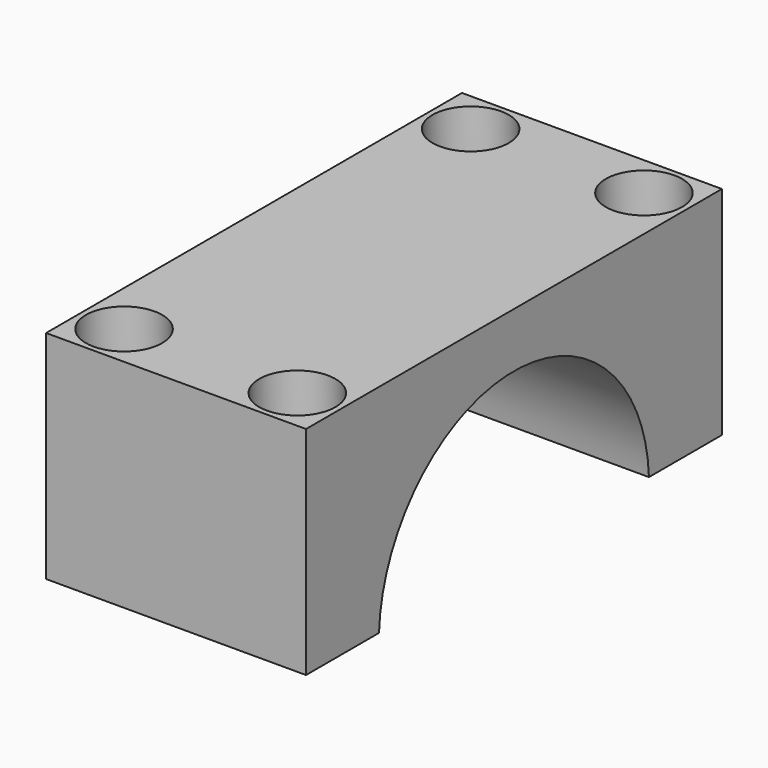
from build123d import *

# Parameters (mm, degrees)
PAD034_DEPTH    = 19.05
SKETCH070_R     = 1.778
POCKET004_DEPTH = 15.876
SKETCH071_R     = 2.794
POCKET005_DEPTH = 3.048


with BuildPart() as part:
    # Sketch069 → Pad034 (new body)
    with BuildSketch(Plane.YZ):
        with BuildLine():
            Line((-19.05, -7.9375), (-19.05, 7.9375))
            Line((-19.05, 7.9375), (19.05, 7.9375))
            Line((19.05, 7.9375), (19.05, -7.9375))
            Line((19.05, -7.9375), (12.364569, -7.9375))
            ThreePointArc((12.364569, -7.9375), (0, 3.9295), (-12.364569, -7.9375))
            Line((-12.364569, -7.9375), (-19.05, -7.9375))
        make_face()
    extrude(amount=PAD034_DEPTH)

    # Sketch070 (on Face2 of Pad034) → Pocket004 (cut, through all)
    with BuildSketch(Plane(origin=(0, 0, 7.9375), x_dir=(0, -1, 0), z_dir=(0, 0, 1))):
        with Locations((15.875, 15.875)):
            Circle(SKETCH070_R)
        with Locations((15.875, 3.175)):
            Circle(SKETCH070_R)
        with Locations((-15.875, 15.875)):
            Circle(SKETCH070_R)
        with Locations((-15.875, 3.175)):
            Circle(SKETCH070_R)
    extrude(amount=-POCKET004_DEPTH, mode=Mode.SUBTRACT)

    # Sketch071 (on Face2 of Pad034) → Pocket005 (cut)
    with BuildSketch(Plane(origin=(0, 0, 7.9375), x_dir=(0, -1, 0), z_dir=(0, 0, 1))):
        with Locations((15.875, 15.875)):
            Circle(SKETCH071_R)
        with Locations((15.875, 3.175)):
            Circle(SKETCH071_R)
        with Locations((-15.875, 15.875)):
            Circle(SKETCH071_R)
        with Locations((-15.875, 3.175)):
            Circle(SKETCH071_R)
    extrude(amount=-POCKET005_DEPTH, mode=Mode.SUBTRACT)


with BuildPart() as part_1:
    # Body027 placement: moved
    add(part.part.moved(Location((-17.78, 40.132, 16.256))))


solid = part_1.part
